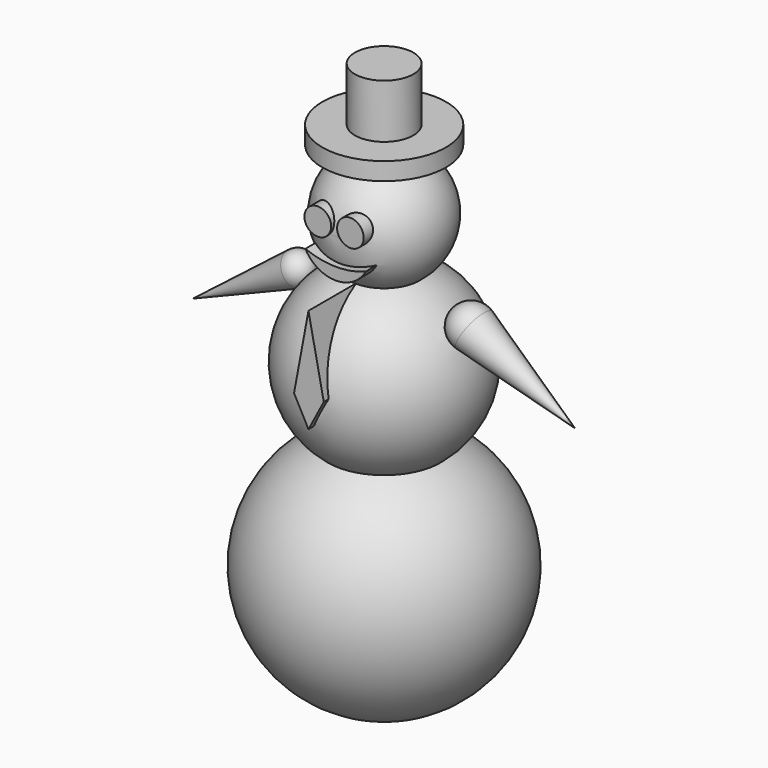
from build123d import *

# Parameters (mm, degrees)
F6_R     = 4.9383304639
F6_R_2   = 4.9213884818
F7_DEPTH = 22.86
F9_DEPTH = 35


with BuildPart() as f1:
    # F0 (on Front) → F1 (revolve)
    with BuildSketch(Plane.XZ):
        with BuildLine():
            Line((0, 41.1730227667), (0, 78.2009668334))
            ThreePointArc((0, 78.2009668334), (-20.9119558638, 63.0860384803), (-13.1199405888, 38.4881634679))
            ThreePointArc((-13.1199405888, 38.4881634679), (-6.6959187291, 40.4949241634), (0, 41.1730227667))
        make_face()
        with BuildLine():
            ThreePointArc((0, 41.1730227667), (-6.6959187291, 40.4949241634), (-13.1199405888, 38.4881634679))
            ThreePointArc((-13.1199405888, 38.4881634679), (-6.9086943071, 35.2653883093), (0, 34.153721513))
            Line((0, 34.153721513), (0, 41.1730227667))
        make_face()
        with BuildLine():
            ThreePointArc((0, 34.153721513), (-6.9086943071, 35.2653883093), (-13.1199405888, 38.4881634679))
            ThreePointArc((-13.1199405888, 38.4881634679), (-33.0979943621, 12.2456302566), (-20.7992544708, -18.3572156731))
            ThreePointArc((-20.7992544708, -18.3572156731), (-10.7034456705, -14.5773010466), (0, -13.2930266618))
            Line((0, -13.2930266618), (0, 34.153721513))
        make_face()
        with BuildLine():
            ThreePointArc((0, -13.2930266618), (-10.7034456705, -14.5773010466), (-20.7992544708, -18.3572156731))
            ThreePointArc((-20.7992544708, -18.3572156731), (-11.0161125792, -23.7552019381), (0, -25.624261764))
            Line((0, -25.624261764), (0, -13.2930266618))
        make_face()
        with BuildLine():
            ThreePointArc((0, -25.624261764), (-11.0161125792, -23.7552019381), (-20.7992544708, -18.3572156731))
            ThreePointArc((-20.7992544708, -18.3572156731), (-43.9603833344, -69.2411300515), (0, -103.7823421002))
            Line((0, -103.7823421002), (0, -25.624261764))
        make_face()
    revolve(axis=Axis((0, 0, -12.7906876334), (0, 0, -1)))

    # F4 (on Front) → F5 (revolve)
    with BuildSketch(Plane.XZ):
        with BuildLine():
            ThreePointArc((36.8568900716, 35.6461797545), (38.9990543835, 32.9835741433), (39.7642658013, 29.6529904008))
            ThreePointArc((39.7642658013, 29.6529904008), (39.534712599, 27.795397797), (38.8598640566, 26.0495672212))
            Line((38.8598640566, 26.0495672212), (70.6249028444, 9.0325800702))
            Line((70.6249028444, 9.0325800702), (36.8568900716, 35.6461797545))
        make_face()
        with BuildLine():
            Line((32.133474946, 29.6529904008), (36.8568900716, 35.6461797545))
            ThreePointArc((36.8568900716, 35.6461797545), (30.5743977228, 37.1228128411), (25.4070858355, 33.2564135803))
            Line((25.4070858355, 33.2564135803), (32.133474946, 29.6529904008))
        make_face()
        with BuildLine():
            ThreePointArc((38.8598640566, 26.0495672212), (39.534712599, 27.795397797), (39.7642658013, 29.6529904008))
            ThreePointArc((39.7642658013, 29.6529904008), (38.9990543835, 32.9835741433), (36.8568900716, 35.6461797545))
            Line((36.8568900716, 35.6461797545), (32.133474946, 29.6529904008))
            Line((32.133474946, 29.6529904008), (38.8598640566, 26.0495672212))
        make_face()
    revolve(axis=Axis((51.3791888952, 0, 19.3427852355), (0.8814799459, 0, -0.4722214575)))

    # F6 (on Front) → F7 (join)
    with BuildSketch(Plane.XZ):
        with Locations((-6.2570981681, 60.6860294938)):
            Circle(F6_R)
        with Locations((5.7995235547, 60.8903802931)):
            Circle(F6_R_2)
        with BuildLine():
            ThreePointArc((11.5071134642, 50.1573942602), (0.3211805933, 48.0925309743), (-10.831663385, 50.3292307258))
            ThreePointArc((-10.831663385, 50.3292307258), (0.2867917857, 43.6219787208), (11.5071134642, 50.1573942602))
        make_face()
    extrude(amount=F7_DEPTH)

    # F8 (on Front) → F9 (join)
    with BuildSketch(Plane.XZ):
        Polygon((5.6706154719, 10.7509475201), (0, 38.5885052383), (0, 0), align=None)
        Polygon((0, 0), (0, 38.5885052383), (-5.3269416094, 10.0636016577), align=None)
    extrude(amount=F9_DEPTH)


with BuildPart() as f3:
    # F2 (on Front) → F3 (revolve)
    with BuildSketch(Plane.XZ):
        with BuildLine():
            Line((-70.7402452826, 5.314361304), (-37.1553881819, 24.8637536865))
            ThreePointArc((-37.1553881819, 24.8637536865), (-37.8538790166, 28.989012755), (-35.6630359155, 32.5535405408))
            Line((-35.6630359155, 32.5535405408), (-70.7402452826, 5.314361304))
        make_face()
        with BuildLine():
            Line((-32.0150703192, 27.8558786958), (-26.8747524565, 30.8480037052))
            ThreePointArc((-26.8747524565, 30.8480037052), (-30.88193626, 33.6946873933), (-35.6630359155, 32.5535405408))
            Line((-35.6630359155, 32.5535405408), (-32.0150703192, 27.8558786958))
        make_face()
        with BuildLine():
            ThreePointArc((-35.6630359155, 32.5535405408), (-37.8538790166, 28.989012755), (-37.1553881819, 24.8637536865))
            Line((-37.1553881819, 24.8637536865), (-32.0150703192, 27.8558786958))
            Line((-32.0150703192, 27.8558786958), (-35.6630359155, 32.5535405408))
        make_face()
    revolve(axis=Axis((-51.3776578009, 0, 16.5851199999), (-0.8642463981, 0, -0.5030687462)))


with BuildPart() as f11:
    # F10 (on Front) → F11 (revolve)
    with BuildSketch(Plane.XZ):
        Polygon((0, 104.9174889922), (-10.8257010579, 104.9174889922), (-10.8257010579, 84.9844291806), (-22.8542741388, 84.9844291806), (-22.8542741388, 78.4546285868), (0, 78.4546285868), align=None)
    revolve(axis=Axis((0, 0, 91.6860587895), (0, 0, 1)))


solid = Compound([f1.part, f3.part, f11.part])
